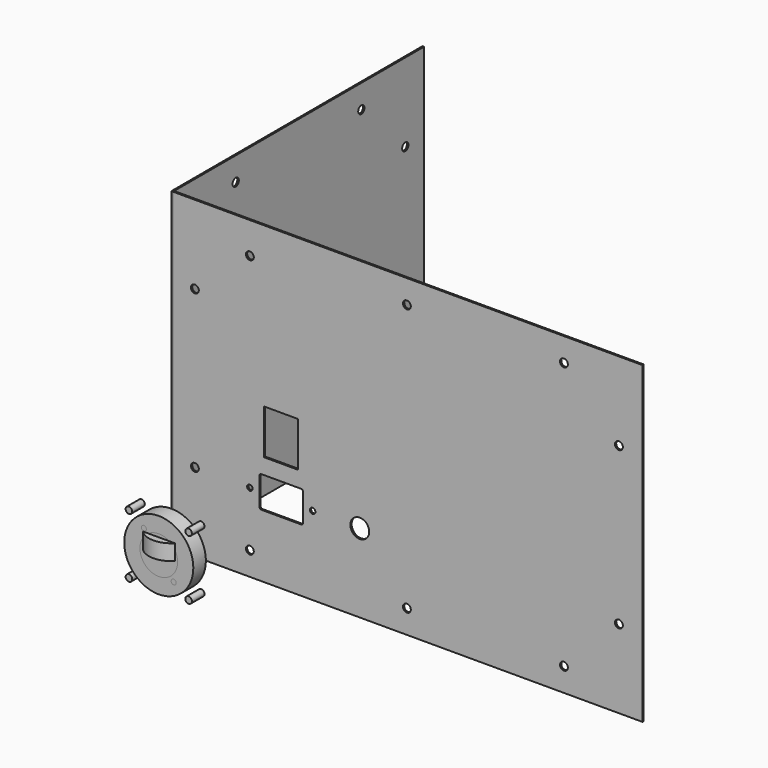
from build123d import *

# Parameters (mm, degrees)
SKETCH001_R       = 22
SKETCH001_R_2     = 2.1
EXTRUDE001_DEPTH  = 10
SKETCH002_R       = 22
SKETCH002_R_2     = 2.1
EXTRUDE002_DEPTH  = 10
SKETCH003_R       = 22
SKETCH003_R_2     = 2.1
EXTRUDE003_DEPTH  = 10
CYLINDER_R        = 14.3
CYLINDER_DEPTH    = 10
SKETCH004_R       = 12
SKETCH004_R_2     = 1.6
EXTRUDE004_DEPTH  = 10
SKETCH005_R       = 12
SKETCH005_R_2     = 1.6
EXTRUDE005_DEPTH  = 10
SKETCH006_R       = 12
SKETCH006_R_2     = 1.6
EXTRUDE006_DEPTH  = 10
SKETCH007_R       = 12
SKETCH007_R_2     = 1.6
EXTRUDE007_DEPTH  = 10
SKETCH008_R       = 12
SKETCH008_R_2     = 1.6
EXTRUDE008_DEPTH  = 10
SKETCH009_R       = 12
SKETCH009_R_2     = 1.6
EXTRUDE009_DEPTH  = 10
SKETCH010_R       = 12
SKETCH010_R_2     = 1.6
EXTRUDE010_DEPTH  = 10
SKETCH011_R       = 12
SKETCH011_R_2     = 1.6
EXTRUDE011_DEPTH  = 10
SKETCH012_R       = 12
SKETCH012_R_2     = 1.6
EXTRUDE012_DEPTH  = 10
SKETCH013_R       = 12
SKETCH013_R_2     = 1.6
EXTRUDE013_DEPTH  = 10
SKETCH014_R       = 12
SKETCH014_R_2     = 1.6
EXTRUDE014_DEPTH  = 10
SKETCH015_R       = 12
SKETCH015_R_2     = 1.6
EXTRUDE015_DEPTH  = 10
BOX_W             = 10
BOX_H             = 10
BOX_DEPTH         = 10
BOX001_W          = 10
BOX001_H          = 10
BOX001_DEPTH      = 10
BOX002_W          = 10
BOX002_H          = 10
BOX002_DEPTH      = 10
BOX006_W          = 28.5
BOX006_H          = 21.7
BOX006_DEPTH      = 10
BOX007_W          = 28.5
BOX007_H          = 21.7
BOX007_DEPTH      = 10
BOX008_W          = 28.5
BOX008_H          = 21.7
BOX008_DEPTH      = 10
BOX009_W          = 28.5
BOX009_H          = 21.7
BOX009_DEPTH      = 10
BOX010_W          = 28.5
BOX010_H          = 21.7
BOX010_DEPTH      = 10
BOX011_W          = 28.5
BOX011_H          = 21.7
BOX011_DEPTH      = 10
BOX012_W          = 28.5
BOX012_H          = 21.7
BOX012_DEPTH      = 10
BOX013_W          = 28.5
BOX013_H          = 21.7
BOX013_DEPTH      = 10
BOX014_W          = 28.5
BOX014_H          = 21.7
BOX014_DEPTH      = 10
CYLINDER001_R     = 6
CYLINDER001_DEPTH = 10
CYLINDER002_R     = 6
CYLINDER002_DEPTH = 10
CYLINDER003_R     = 6
CYLINDER003_DEPTH = 10
CYLINDER004_R     = 6
CYLINDER004_DEPTH = 10
CYLINDER005_R     = 6
CYLINDER005_DEPTH = 10
CYLINDER006_R     = 6
CYLINDER006_DEPTH = 10
CYLINDER007_R     = 6
CYLINDER007_DEPTH = 10
CYLINDER008_R     = 6
CYLINDER008_DEPTH = 10
CYLINDER009_R     = 6
CYLINDER009_DEPTH = 10
CYLINDER010_R     = 6
CYLINDER010_DEPTH = 10
CYLINDER011_R     = 6
CYLINDER011_DEPTH = 10
CYLINDER012_R     = 6
CYLINDER012_DEPTH = 10
CYLINDER013_R     = 6
CYLINDER013_DEPTH = 10
CYLINDER014_R     = 6
CYLINDER014_DEPTH = 10
CYLINDER015_R     = 6
CYLINDER015_DEPTH = 10
CYLINDER016_R     = 6
CYLINDER016_DEPTH = 10
CYLINDER017_R     = 6
CYLINDER017_DEPTH = 10
BOX015_W          = 21.7
BOX015_H          = 28.5
BOX015_DEPTH      = 10
CYLINDER018_R     = 2.5
CYLINDER018_DEPTH = 10
CYLINDER019_R     = 2.5
CYLINDER019_DEPTH = 10
CYLINDER020_R     = 2.5
CYLINDER020_DEPTH = 10
CYLINDER021_R     = 2.5
CYLINDER021_DEPTH = 10
CYLINDER022_R     = 2.5
CYLINDER022_DEPTH = 10
CYLINDER023_R     = 2.5
CYLINDER023_DEPTH = 10
CYLINDER024_R     = 2.5
CYLINDER024_DEPTH = 10
CYLINDER025_R     = 2.5
CYLINDER025_DEPTH = 10
CYLINDER027_R     = 2.5
CYLINDER027_DEPTH = 10
CYLINDER026_R     = 2.5
CYLINDER026_DEPTH = 10
SKETCH_R          = 1.75
EXTRUDE_DEPTH     = 10
BOX003_W          = 300
BOX003_H          = 1
BOX003_DEPTH      = 200
CYLINDER030_R     = 2.5
CYLINDER030_DEPTH = 10
CYLINDER032_R     = 2.5
CYLINDER032_DEPTH = 10
CYLINDER034_R     = 2.5
CYLINDER034_DEPTH = 10
CYLINDER036_R     = 2.5
CYLINDER036_DEPTH = 10
CYLINDER038_R     = 2.5
CYLINDER038_DEPTH = 10
CYLINDER040_R     = 2.5
CYLINDER040_DEPTH = 10
CYLINDER042_R     = 2.5
CYLINDER042_DEPTH = 10
CYLINDER028_R     = 2.5
CYLINDER028_DEPTH = 10
BOX005_W          = 1
BOX005_H          = 200
BOX005_DEPTH      = 200
CYLINDER044_R     = 2.5
CYLINDER044_DEPTH = 10
CYLINDER045_R     = 2.5
CYLINDER045_DEPTH = 10
CYLINDER046_R     = 2.5
CYLINDER046_DEPTH = 10
CYLINDER047_R     = 2.5
CYLINDER047_DEPTH = 10
CYLINDER048_R     = 2.5
CYLINDER048_DEPTH = 10
CYLINDER049_R     = 2.5
CYLINDER049_DEPTH = 10
CYLINDER050_R     = 2.5
CYLINDER050_DEPTH = 10
CYLINDER043_R     = 2.5
CYLINDER043_DEPTH = 10
BOX016_W          = 1
BOX016_H          = 200
BOX016_DEPTH      = 200


with BuildPart() as power_out:
    # Sketch001 → Extrude001 (new body)
    with BuildSketch(Plane.XZ):
        Circle(SKETCH001_R)
        with Locations((-19, 19)):
            Circle(SKETCH001_R_2)
        with Locations((-19, -19)):
            Circle(SKETCH001_R_2)
        with Locations((19, 19)):
            Circle(SKETCH001_R_2)
        with Locations((19, -19)):
            Circle(SKETCH001_R_2)
    extrude(amount=EXTRUDE001_DEPTH)


with BuildPart() as power_out001:
    # Sketch002 → Extrude002 (new body)
    with BuildSketch(Plane.XZ):
        Circle(SKETCH002_R)
        with Locations((-19, 19)):
            Circle(SKETCH002_R_2)
        with Locations((-19, -19)):
            Circle(SKETCH002_R_2)
        with Locations((19, 19)):
            Circle(SKETCH002_R_2)
        with Locations((19, -19)):
            Circle(SKETCH002_R_2)
    extrude(amount=EXTRUDE002_DEPTH)


with BuildPart() as power_out002:
    # Sketch003 → Extrude003 (new body)
    with BuildSketch(Plane.XZ):
        Circle(SKETCH003_R)
        with Locations((-19, 19)):
            Circle(SKETCH003_R_2)
        with Locations((-19, -19)):
            Circle(SKETCH003_R_2)
        with Locations((19, 19)):
            Circle(SKETCH003_R_2)
        with Locations((19, -19)):
            Circle(SKETCH003_R_2)
    extrude(amount=EXTRUDE003_DEPTH)


with BuildPart() as obj1:
    # Cylinder → Cylinder (new body)
    with BuildSketch(Plane.XY):
        Circle(CYLINDER_R)
    extrude(amount=CYLINDER_DEPTH)


with BuildPart() as obj2:
    # Sketch004 → Extrude004 (new body)
    with BuildSketch(Plane.XZ):
        Circle(SKETCH004_R)
        with Locations((-9.5, 12)):
            Circle(SKETCH004_R_2)
        with Locations((9.5, -12)):
            Circle(SKETCH004_R_2)
    extrude(amount=EXTRUDE004_DEPTH)


with BuildPart() as obj3:
    # Sketch005 → Extrude005 (new body)
    with BuildSketch(Plane.XZ):
        Circle(SKETCH005_R)
        with Locations((-9.5, 12)):
            Circle(SKETCH005_R_2)
        with Locations((9.5, -12)):
            Circle(SKETCH005_R_2)
    extrude(amount=EXTRUDE005_DEPTH)


with BuildPart() as obj4:
    # Sketch006 → Extrude006 (new body)
    with BuildSketch(Plane.XZ):
        Circle(SKETCH006_R)
        with Locations((-9.5, 12)):
            Circle(SKETCH006_R_2)
        with Locations((9.5, -12)):
            Circle(SKETCH006_R_2)
    extrude(amount=EXTRUDE006_DEPTH)


with BuildPart() as obj5:
    # Sketch007 → Extrude007 (new body)
    with BuildSketch(Plane.XZ):
        Circle(SKETCH007_R)
        with Locations((-9.5, 12)):
            Circle(SKETCH007_R_2)
        with Locations((9.5, -12)):
            Circle(SKETCH007_R_2)
    extrude(amount=EXTRUDE007_DEPTH)


with BuildPart() as obj6:
    # Sketch008 → Extrude008 (new body)
    with BuildSketch(Plane.XZ):
        Circle(SKETCH008_R)
        with Locations((-9.5, 12)):
            Circle(SKETCH008_R_2)
        with Locations((9.5, -12)):
            Circle(SKETCH008_R_2)
    extrude(amount=EXTRUDE008_DEPTH)


with BuildPart() as obj7:
    # Sketch009 → Extrude009 (new body)
    with BuildSketch(Plane.XZ):
        Circle(SKETCH009_R)
        with Locations((-9.5, 12)):
            Circle(SKETCH009_R_2)
        with Locations((9.5, -12)):
            Circle(SKETCH009_R_2)
    extrude(amount=EXTRUDE009_DEPTH)


with BuildPart() as obj8:
    # Sketch010 → Extrude010 (new body)
    with BuildSketch(Plane.XZ):
        Circle(SKETCH010_R)
        with Locations((-9.5, 12)):
            Circle(SKETCH010_R_2)
        with Locations((9.5, -12)):
            Circle(SKETCH010_R_2)
    extrude(amount=EXTRUDE010_DEPTH)


with BuildPart() as obj9:
    # Sketch011 → Extrude011 (new body)
    with BuildSketch(Plane.XZ):
        Circle(SKETCH011_R)
        with Locations((-9.5, 12)):
            Circle(SKETCH011_R_2)
        with Locations((9.5, -12)):
            Circle(SKETCH011_R_2)
    extrude(amount=EXTRUDE011_DEPTH)


with BuildPart() as obj10:
    # Sketch012 → Extrude012 (new body)
    with BuildSketch(Plane.XZ):
        Circle(SKETCH012_R)
        with Locations((-9.5, 12)):
            Circle(SKETCH012_R_2)
        with Locations((9.5, -12)):
            Circle(SKETCH012_R_2)
    extrude(amount=EXTRUDE012_DEPTH)


with BuildPart() as obj11:
    # Sketch013 → Extrude013 (new body)
    with BuildSketch(Plane.XZ):
        Circle(SKETCH013_R)
        with Locations((-9.5, 12)):
            Circle(SKETCH013_R_2)
        with Locations((9.5, -12)):
            Circle(SKETCH013_R_2)
    extrude(amount=EXTRUDE013_DEPTH)


with BuildPart() as obj12:
    # Sketch014 → Extrude014 (new body)
    with BuildSketch(Plane.XZ):
        Circle(SKETCH014_R)
        with Locations((-9.5, 12)):
            Circle(SKETCH014_R_2)
        with Locations((9.5, -12)):
            Circle(SKETCH014_R_2)
    extrude(amount=EXTRUDE014_DEPTH)


with BuildPart() as obj13:
    # Sketch015 → Extrude015 (new body)
    with BuildSketch(Plane.XZ):
        Circle(SKETCH015_R)
        with Locations((-9.5, 12)):
            Circle(SKETCH015_R_2)
        with Locations((9.5, -12)):
            Circle(SKETCH015_R_2)
    extrude(amount=EXTRUDE015_DEPTH)


with BuildPart() as obj14:
    # Box → Box (new body)
    with BuildSketch(Plane.XY):
        with Locations((5, 5)):
            Rectangle(BOX_W, BOX_H)
    extrude(amount=BOX_DEPTH)


with BuildPart() as obj15:
    # Box001 → Box001 (new body)
    with BuildSketch(Plane.XY):
        with Locations((5, 5)):
            Rectangle(BOX001_W, BOX001_H)
    extrude(amount=BOX001_DEPTH)


with BuildPart() as obj16:
    # Box002 → Box002 (new body)
    with BuildSketch(Plane.XY):
        with Locations((5, 5)):
            Rectangle(BOX002_W, BOX002_H)
    extrude(amount=BOX002_DEPTH)


with BuildPart() as obj17:
    # Box006 → Box006 (new body)
    with BuildSketch(Plane.XY):
        with Locations((14.25, 10.85)):
            Rectangle(BOX006_W, BOX006_H)
    extrude(amount=BOX006_DEPTH)


with BuildPart() as obj18:
    # Box007 → Box007 (new body)
    with BuildSketch(Plane.XY):
        with Locations((14.25, 10.85)):
            Rectangle(BOX007_W, BOX007_H)
    extrude(amount=BOX007_DEPTH)


with BuildPart() as obj19:
    # Box008 → Box008 (new body)
    with BuildSketch(Plane.XY):
        with Locations((14.25, 10.85)):
            Rectangle(BOX008_W, BOX008_H)
    extrude(amount=BOX008_DEPTH)


with BuildPart() as obj20:
    # Box009 → Box009 (new body)
    with BuildSketch(Plane.XY):
        with Locations((14.25, 10.85)):
            Rectangle(BOX009_W, BOX009_H)
    extrude(amount=BOX009_DEPTH)


with BuildPart() as obj21:
    # Box010 → Box010 (new body)
    with BuildSketch(Plane.XY):
        with Locations((14.25, 10.85)):
            Rectangle(BOX010_W, BOX010_H)
    extrude(amount=BOX010_DEPTH)


with BuildPart() as obj22:
    # Box011 → Box011 (new body)
    with BuildSketch(Plane.XY):
        with Locations((14.25, 10.85)):
            Rectangle(BOX011_W, BOX011_H)
    extrude(amount=BOX011_DEPTH)


with BuildPart() as obj23:
    # Box012 → Box012 (new body)
    with BuildSketch(Plane.XY):
        with Locations((14.25, 10.85)):
            Rectangle(BOX012_W, BOX012_H)
    extrude(amount=BOX012_DEPTH)


with BuildPart() as obj24:
    # Box013 → Box013 (new body)
    with BuildSketch(Plane.XY):
        with Locations((14.25, 10.85)):
            Rectangle(BOX013_W, BOX013_H)
    extrude(amount=BOX013_DEPTH)


with BuildPart() as obj25:
    # Box014 → Box014 (new body)
    with BuildSketch(Plane.XY):
        with Locations((14.25, 10.85)):
            Rectangle(BOX014_W, BOX014_H)
    extrude(amount=BOX014_DEPTH)


with BuildPart() as obj26:
    # Cylinder001 → Cylinder001 (new body)
    with BuildSketch(Plane.XY):
        Circle(CYLINDER001_R)
    extrude(amount=CYLINDER001_DEPTH)


with BuildPart() as obj27:
    # Cylinder002 → Cylinder002 (new body)
    with BuildSketch(Plane.XY):
        Circle(CYLINDER002_R)
    extrude(amount=CYLINDER002_DEPTH)


with BuildPart() as obj28:
    # Cylinder003 → Cylinder003 (new body)
    with BuildSketch(Plane.XY):
        Circle(CYLINDER003_R)
    extrude(amount=CYLINDER003_DEPTH)


with BuildPart() as obj29:
    # Cylinder004 → Cylinder004 (new body)
    with BuildSketch(Plane.XY):
        Circle(CYLINDER004_R)
    extrude(amount=CYLINDER004_DEPTH)


with BuildPart() as obj30:
    # Cylinder005 → Cylinder005 (new body)
    with BuildSketch(Plane.XY):
        Circle(CYLINDER005_R)
    extrude(amount=CYLINDER005_DEPTH)


with BuildPart() as obj31:
    # Cylinder006 → Cylinder006 (new body)
    with BuildSketch(Plane.XY):
        Circle(CYLINDER006_R)
    extrude(amount=CYLINDER006_DEPTH)


with BuildPart() as obj32:
    # Cylinder007 → Cylinder007 (new body)
    with BuildSketch(Plane.XY):
        Circle(CYLINDER007_R)
    extrude(amount=CYLINDER007_DEPTH)


with BuildPart() as obj33:
    # Cylinder008 → Cylinder008 (new body)
    with BuildSketch(Plane.XY):
        Circle(CYLINDER008_R)
    extrude(amount=CYLINDER008_DEPTH)


with BuildPart() as obj34:
    # Cylinder009 → Cylinder009 (new body)
    with BuildSketch(Plane.XY):
        Circle(CYLINDER009_R)
    extrude(amount=CYLINDER009_DEPTH)


with BuildPart() as obj35:
    # Cylinder010 → Cylinder010 (new body)
    with BuildSketch(Plane.XY):
        Circle(CYLINDER010_R)
    extrude(amount=CYLINDER010_DEPTH)


with BuildPart() as obj36:
    # Cylinder011 → Cylinder011 (new body)
    with BuildSketch(Plane.XY):
        Circle(CYLINDER011_R)
    extrude(amount=CYLINDER011_DEPTH)


with BuildPart() as obj37:
    # Cylinder012 → Cylinder012 (new body)
    with BuildSketch(Plane.XY):
        Circle(CYLINDER012_R)
    extrude(amount=CYLINDER012_DEPTH)


with BuildPart() as obj38:
    # Cylinder013 → Cylinder013 (new body)
    with BuildSketch(Plane.XY):
        Circle(CYLINDER013_R)
    extrude(amount=CYLINDER013_DEPTH)


with BuildPart() as obj39:
    # Cylinder014 → Cylinder014 (new body)
    with BuildSketch(Plane.XY):
        Circle(CYLINDER014_R)
    extrude(amount=CYLINDER014_DEPTH)


with BuildPart() as obj40:
    # Cylinder015 → Cylinder015 (new body)
    with BuildSketch(Plane.XY):
        Circle(CYLINDER015_R)
    extrude(amount=CYLINDER015_DEPTH)


with BuildPart() as obj41:
    # Cylinder016 → Cylinder016 (new body)
    with BuildSketch(Plane.XY):
        Circle(CYLINDER016_R)
    extrude(amount=CYLINDER016_DEPTH)


with BuildPart() as obj42:
    # Cylinder017 → Cylinder017 (new body)
    with BuildSketch(Plane(origin=(120, 5, 50), x_dir=(1, 0, 0), z_dir=(0, -1, 0))):
        Circle(CYLINDER017_R)
    extrude(amount=CYLINDER017_DEPTH)


with BuildPart() as obj43:
    # Box015 → Box015 (new body)
    with BuildSketch(Plane(origin=(59, 5, 70), x_dir=(1, 0, 0), z_dir=(0, -1, 0))):
        with Locations((10.85, 14.25)):
            Rectangle(BOX015_W, BOX015_H)
    extrude(amount=BOX015_DEPTH)


with BuildPart() as obj44:
    # Cylinder018 → Cylinder018 (new body)
    with BuildSketch(Plane(origin=(15, 5, 50), x_dir=(1, 0, 0), z_dir=(0, -1, 0))):
        Circle(CYLINDER018_R)
    extrude(amount=CYLINDER018_DEPTH)


with BuildPart() as obj45:
    # Cylinder019 → Cylinder019 (new body)
    with BuildSketch(Plane(origin=(15, 5, 150), x_dir=(1, 0, 0), z_dir=(0, -1, 0))):
        Circle(CYLINDER019_R)
    extrude(amount=CYLINDER019_DEPTH)


with BuildPart() as obj46:
    # Cylinder020 → Cylinder020 (new body)
    with BuildSketch(Plane(origin=(285, 5, 50), x_dir=(1, 0, 0), z_dir=(0, -1, 0))):
        Circle(CYLINDER020_R)
    extrude(amount=CYLINDER020_DEPTH)


with BuildPart() as obj47:
    # Cylinder021 → Cylinder021 (new body)
    with BuildSketch(Plane(origin=(285, 5, 150), x_dir=(1, 0, 0), z_dir=(0, -1, 0))):
        Circle(CYLINDER021_R)
    extrude(amount=CYLINDER021_DEPTH)


with BuildPart() as obj48:
    # Cylinder022 → Cylinder022 (new body)
    with BuildSketch(Plane(origin=(50, 5, 15), x_dir=(1, 0, 0), z_dir=(0, -1, 0))):
        Circle(CYLINDER022_R)
    extrude(amount=CYLINDER022_DEPTH)


with BuildPart() as obj49:
    # Cylinder023 → Cylinder023 (new body)
    with BuildSketch(Plane(origin=(150, 5, 15), x_dir=(1, 0, 0), z_dir=(0, -1, 0))):
        Circle(CYLINDER023_R)
    extrude(amount=CYLINDER023_DEPTH)


with BuildPart() as obj50:
    # Cylinder024 → Cylinder024 (new body)
    with BuildSketch(Plane(origin=(250, 5, 15), x_dir=(1, 0, 0), z_dir=(0, -1, 0))):
        Circle(CYLINDER024_R)
    extrude(amount=CYLINDER024_DEPTH)


with BuildPart() as obj51:
    # Cylinder025 → Cylinder025 (new body)
    with BuildSketch(Plane(origin=(50, 5, 180), x_dir=(1, 0, 0), z_dir=(0, -1, 0))):
        Circle(CYLINDER025_R)
    extrude(amount=CYLINDER025_DEPTH)


with BuildPart() as obj52:
    # Cylinder027 → Cylinder027 (new body)
    with BuildSketch(Plane(origin=(250, 5, 185), x_dir=(1, 0, 0), z_dir=(0, -1, 0))):
        Circle(CYLINDER027_R)
    extrude(amount=CYLINDER027_DEPTH)


with BuildPart() as obj53:
    # Cylinder026 → Cylinder026 (new body)
    with BuildSketch(Plane(origin=(150, 5, 185), x_dir=(1, 0, 0), z_dir=(0, -1, 0))):
        Circle(CYLINDER026_R)
    extrude(amount=CYLINDER026_DEPTH)


with BuildPart() as fusion:
    # Sketch → Extrude (new body)
    with BuildSketch(Plane.XZ):
        Circle(SKETCH_R)
        with Locations((40, 0)):
            Circle(SKETCH_R)
        with BuildLine():
            ThreePointArc((7.5, 10), (6.43934, 9.56066), (6, 8.5))
            Line((6, 8.5), (6, -8.500001))
            ThreePointArc((6, -8.500001), (6.43934, -9.560661), (7.5, -10))
            Line((32.5, -10), (7.5, -10))
            ThreePointArc((32.5, -10), (33.56066, -9.56066), (34, -8.5))
            Line((34, 8.5), (34, -8.5))
            ThreePointArc((34, 8.5), (33.56066, 9.56066), (32.5, 10))
            Line((7.5, 10), (32.5, 10))
        make_face()
    extrude(amount=EXTRUDE_DEPTH)


with BuildPart() as fusion_1:
    # Extrude placement: moved
    add(fusion.part.moved(Location((50, 5, 50))))

    # Fusion: union obj42, obj43, obj44, obj45, obj46, obj47, obj48, obj49, obj50, obj51, obj52, obj53
    add(obj42.part)
    add(obj43.part)
    add(obj44.part)
    add(obj45.part)
    add(obj46.part)
    add(obj47.part)
    add(obj48.part)
    add(obj49.part)
    add(obj50.part)
    add(obj51.part)
    add(obj52.part)
    add(obj53.part)


with BuildPart() as obj54:
    # Box003 → Box003 (new body)
    with BuildSketch(Plane.XY):
        with Locations((150, 0.5)):
            Rectangle(BOX003_W, BOX003_H)
    extrude(amount=BOX003_DEPTH)

    # Cut: cut Fusion
    add(fusion_1.part, mode=Mode.SUBTRACT)


with BuildPart() as obj55:
    # Cylinder030 → Cylinder030 (new body)
    with BuildSketch(Plane(origin=(5, 15, 150), x_dir=(0, 0, -1), z_dir=(1, 0, 0))):
        Circle(CYLINDER030_R)
    extrude(amount=CYLINDER030_DEPTH)


with BuildPart() as obj56:
    # Cylinder032 → Cylinder032 (new body)
    with BuildSketch(Plane(origin=(5, 185, 50), x_dir=(0, 0, -1), z_dir=(1, 0, 0))):
        Circle(CYLINDER032_R)
    extrude(amount=CYLINDER032_DEPTH)


with BuildPart() as obj57:
    # Cylinder034 → Cylinder034 (new body)
    with BuildSketch(Plane(origin=(5, 185, 150), x_dir=(0, 0, -1), z_dir=(1, 0, 0))):
        Circle(CYLINDER034_R)
    extrude(amount=CYLINDER034_DEPTH)


with BuildPart() as obj58:
    # Cylinder036 → Cylinder036 (new body)
    with BuildSketch(Plane(origin=(5, 50, 15), x_dir=(0, 0, -1), z_dir=(1, 0, 0))):
        Circle(CYLINDER036_R)
    extrude(amount=CYLINDER036_DEPTH)


with BuildPart() as obj59:
    # Cylinder038 → Cylinder038 (new body)
    with BuildSketch(Plane(origin=(5, 150, 15), x_dir=(0, 0, -1), z_dir=(1, 0, 0))):
        Circle(CYLINDER038_R)
    extrude(amount=CYLINDER038_DEPTH)


with BuildPart() as obj60:
    # Cylinder040 → Cylinder040 (new body)
    with BuildSketch(Plane(origin=(5, 50, 185), x_dir=(0, 0, -1), z_dir=(1, 0, 0))):
        Circle(CYLINDER040_R)
    extrude(amount=CYLINDER040_DEPTH)


with BuildPart() as obj61:
    # Cylinder042 → Cylinder042 (new body)
    with BuildSketch(Plane(origin=(5, 150, 185), x_dir=(0, 0, -1), z_dir=(1, 0, 0))):
        Circle(CYLINDER042_R)
    extrude(amount=CYLINDER042_DEPTH)


with BuildPart() as fusion001:
    # Cylinder028 → Cylinder028 (new body)
    with BuildSketch(Plane(origin=(5, 15, 50), x_dir=(0, 0, -1), z_dir=(1, 0, 0))):
        Circle(CYLINDER028_R)
    extrude(amount=CYLINDER028_DEPTH)

    # Fusion001: union obj55, obj56, obj57, obj58, obj59, obj60, obj61
    add(obj55.part)
    add(obj56.part)
    add(obj57.part)
    add(obj58.part)
    add(obj59.part)
    add(obj60.part)
    add(obj61.part)


with BuildPart() as fusion001_1:
    # Fusion001 placement: moved
    add(fusion001.part.moved(Location((-10, 0, 0))))


with BuildPart() as obj62:
    # Box005 → Box005 (new body)
    with BuildSketch(Plane.XY):
        with Locations((0.5, 100)):
            Rectangle(BOX005_W, BOX005_H)
    extrude(amount=BOX005_DEPTH)

    # Cut001: cut Fusion001
    add(fusion001_1.part, mode=Mode.SUBTRACT)


with BuildPart() as obj63:
    # Cylinder044 → Cylinder044 (new body)
    with BuildSketch(Plane(origin=(5, 15, 150), x_dir=(0, 0, -1), z_dir=(1, 0, 0))):
        Circle(CYLINDER044_R)
    extrude(amount=CYLINDER044_DEPTH)


with BuildPart() as obj64:
    # Cylinder045 → Cylinder045 (new body)
    with BuildSketch(Plane(origin=(5, 185, 50), x_dir=(0, 0, -1), z_dir=(1, 0, 0))):
        Circle(CYLINDER045_R)
    extrude(amount=CYLINDER045_DEPTH)


with BuildPart() as obj65:
    # Cylinder046 → Cylinder046 (new body)
    with BuildSketch(Plane(origin=(5, 185, 150), x_dir=(0, 0, -1), z_dir=(1, 0, 0))):
        Circle(CYLINDER046_R)
    extrude(amount=CYLINDER046_DEPTH)


with BuildPart() as obj66:
    # Cylinder047 → Cylinder047 (new body)
    with BuildSketch(Plane(origin=(5, 50, 15), x_dir=(0, 0, -1), z_dir=(1, 0, 0))):
        Circle(CYLINDER047_R)
    extrude(amount=CYLINDER047_DEPTH)


with BuildPart() as obj67:
    # Cylinder048 → Cylinder048 (new body)
    with BuildSketch(Plane(origin=(5, 150, 15), x_dir=(0, 0, -1), z_dir=(1, 0, 0))):
        Circle(CYLINDER048_R)
    extrude(amount=CYLINDER048_DEPTH)


with BuildPart() as obj68:
    # Cylinder049 → Cylinder049 (new body)
    with BuildSketch(Plane(origin=(5, 50, 185), x_dir=(0, 0, -1), z_dir=(1, 0, 0))):
        Circle(CYLINDER049_R)
    extrude(amount=CYLINDER049_DEPTH)


with BuildPart() as obj69:
    # Cylinder050 → Cylinder050 (new body)
    with BuildSketch(Plane(origin=(5, 150, 185), x_dir=(0, 0, -1), z_dir=(1, 0, 0))):
        Circle(CYLINDER050_R)
    extrude(amount=CYLINDER050_DEPTH)


with BuildPart() as fusion002:
    # Cylinder043 → Cylinder043 (new body)
    with BuildSketch(Plane(origin=(5, 15, 50), x_dir=(0, 0, -1), z_dir=(1, 0, 0))):
        Circle(CYLINDER043_R)
    extrude(amount=CYLINDER043_DEPTH)

    # Fusion002: union obj63, obj64, obj65, obj66, obj67, obj68, obj69
    add(obj63.part)
    add(obj64.part)
    add(obj65.part)
    add(obj66.part)
    add(obj67.part)
    add(obj68.part)
    add(obj69.part)


with BuildPart() as fusion002_1:
    # Fusion002 placement: moved
    add(fusion002.part.moved(Location((-10, 0, 0))))


with BuildPart() as obj70:
    # Box016 → Box016 (new body)
    with BuildSketch(Plane.XY):
        with Locations((0.5, 100)):
            Rectangle(BOX016_W, BOX016_H)
    extrude(amount=BOX016_DEPTH)

    # Cut002: cut Fusion002
    add(fusion002_1.part, mode=Mode.SUBTRACT)


solid = Compound([power_out.part, power_out001.part, power_out002.part, obj1.part, obj2.part, obj3.part, obj4.part, obj5.part, obj6.part, obj7.part, obj8.part, obj9.part, obj10.part, obj11.part, obj12.part, obj13.part, obj14.part, obj15.part, obj16.part, obj17.part, obj18.part, obj19.part, obj20.part, obj21.part, obj22.part, obj23.part, obj24.part, obj25.part, obj26.part, obj27.part, obj28.part, obj29.part, obj30.part, obj31.part, obj32.part, obj33.part, obj34.part, obj35.part, obj36.part, obj37.part, obj38.part, obj39.part, obj40.part, obj41.part, obj54.part, obj62.part, obj70.part])
